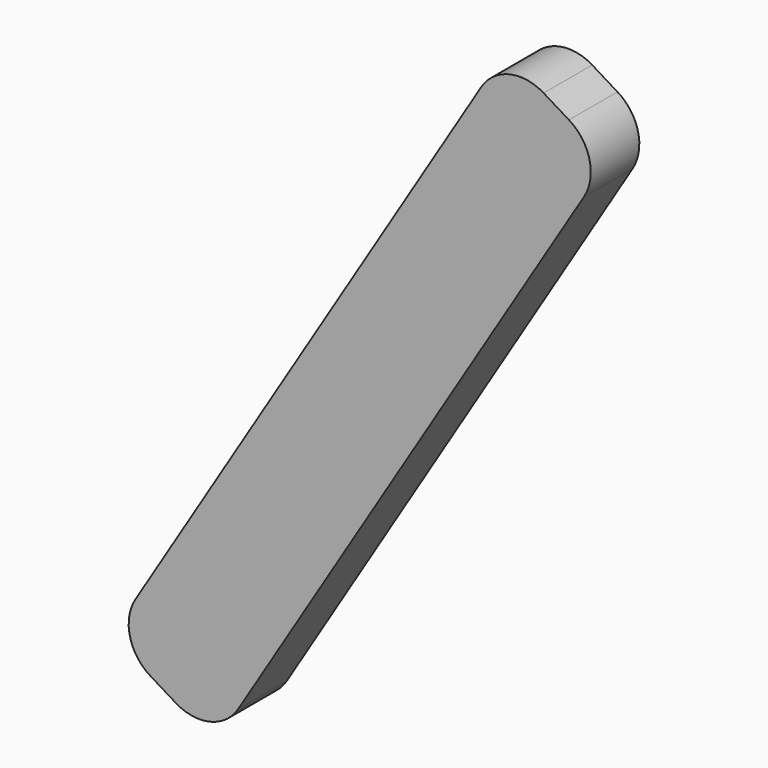
from build123d import *

# Parameters (mm, degrees)
PAD024_DEPTH = 4
FILLET016_R  = 3


with BuildPart() as fillet016:
    # Sketch028 → Pad024 (new body)
    with BuildSketch(Plane.XZ.offset(25)):
        Polygon((-45.702244, -3.721947), (-38.908337, 0.415547), (-12.968213, -41.849118), (-19.76212, -45.986612), align=None)
    extrude(amount=PAD024_DEPTH)

    # Fillet016
    fillet016_edges = [fillet016.edges().sort_by_distance(p)[0] for p in [
        (-45.702244, -27, -3.721947),
        (-38.908337, -27, 0.415547),
        (-12.968213, -27, -41.849118),
        (-19.76212, -27, -45.986612),
    ]]
    fillet(fillet016_edges, radius=FILLET016_R)


with BuildPart() as part_mirroring012:
    # Part__Mirroring012: instance of Fillet016
    add(fillet016.part.mirror(Plane(origin=(0, 0, 0), x_dir=(0, -1, 0), z_dir=(1, 0, 0))))


with BuildPart() as part_mirroring012_1:
    # Part__Mirroring012 placement: moved
    add(part_mirroring012.part.moved(Location((76, 0, 0))))


solid = part_mirroring012_1.part
